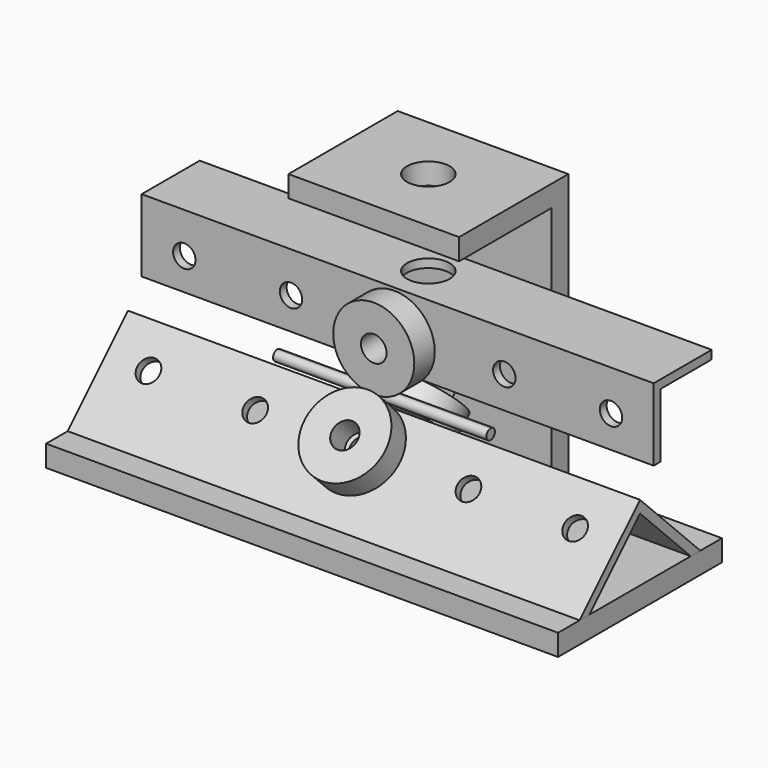
from build123d import *

# Parameters (mm, degrees)
F5_DEPTH         = 25
F5_DEPTH_BACK    = 25
F7_DEPTH         = 60
F7_DEPTH_BACK    = 60
F10_W            = 48
F10_H            = 5
F11_DEPTH        = 60
F11_DEPTH_BACK   = 60
F12_DEPTH        = 60
F12_DEPTH_BACK   = 60
F10_W_2          = 27
F10_W_3          = 5
F10_H_2          = 30
F13_DEPTH        = 20
F13_DEPTH_BACK   = 20
F15_D            = 5.25
F15_DEPTH        = 8.15
F15_TIP          = 1.5772591249
F15_ON_F8_D      = 5.25
F15_ON_F8_DEPTH  = 8.15
F15_ON_F8_TIP    = 1.5772591249
F15_ON_F14_D     = 5.25
F15_ON_F14_DEPTH = 8.15
F15_ON_F14_TIP   = 1.5772591249
F17_D            = 10
F17_DEPTH        = 54.5
F17_TIP          = 3.0043030951
F17_2_D          = 10
F17_2_DEPTH      = 54.5
F17_2_TIP        = 3.0043030951
F20_R            = 3
F21_DEPTH        = 3


with BuildPart() as f2:
    # F1 (on Right) → F2 (revolve)
    with BuildSketch(Plane.YZ):
        Polygon((-13.581475452, -4.5961940777), (-18.1776695297, -9.1923881554), (-13.9350288425, -13.4350288425), (-9.3388347648, -8.8388347648), align=None)
    revolve(axis=Axis((0, -9.3388347648, -4.5961940777), (0, 0.7071067812, -0.7071067812)))


with BuildPart() as f3:
    # F1 (on Right) → F3 (revolve)
    with BuildSketch(Plane.YZ):
        Polygon((13.9350288425, -13.4350288425), (18.1776695297, -9.1923881554), (13.581475452, -4.5961940777), (9.3388347648, -8.8388347648), align=None)
    revolve(axis=Axis((0, 9.3388347648, -4.5961940777), (0, -0.7071067812, -0.7071067812)))


with BuildPart() as f4:
    # F1 (on Right) → F4 (revolve)
    with BuildSketch(Plane.YZ):
        Polygon((3, 9), (-3, 9), (-3, 2.5), (0, 2.5), (3, 2.5), align=None)
    revolve(axis=Axis((0, 3.3228797838, 12), (0, 1, 0)))


with BuildPart() as f5:
    # F1 (on Right) → F5 (new body, two sides)
    with BuildSketch(Plane.YZ) as f5_sk:
        with BuildLine():
            ThreePointArc((1.2426406871, 1.2573593129), (0.8786796564, 2.1360389693), (0, 2.5))
            ThreePointArc((0, 2.5), (-0.8786796564, 0.3786796564), (1.2426406871, 1.2573593129))
        make_face()
    extrude(amount=F5_DEPTH)
    extrude(f5_sk.sketch, amount=-F5_DEPTH_BACK)


with BuildPart() as f7:
    # F6 (on Right) → F7 (new body, two sides)
    with BuildSketch(Plane.YZ) as f7_sk:
        Polygon((17.6776695297, -18.591883092), (0, -0.9142135624), (-17.6776695297, -18.591883092), (-14.8492424049, -18.591883092), (0, -3.7426406871), (14.8492424049, -18.591883092), align=None)
    extrude(amount=F7_DEPTH)
    extrude(f7_sk.sketch, amount=-F7_DEPTH_BACK)

    # F15
    with Locations(Plane(origin=(0, -0.4571067812, -0.4571067812), x_dir=(-1, 0, 0), z_dir=(0, 0.7071067812, 0.7071067812))):
        with Locations((-50, -9.8535533906), (-25, -9.8535533906), (0, -9.8535533906), (25, -9.8535533906), (50, -9.8535533906)):
            Hole(F15_D / 2, depth=F15_DEPTH)
            with Locations((0, 0, -(F15_DEPTH + F15_TIP / 2))):  # 118° drill point
                Cone(0, F15_D / 2, F15_TIP, mode=Mode.SUBTRACT)

    # F15 on F8
    with Locations(Plane(origin=(0, 0.4571067812, -0.4571067812), x_dir=(1, 0, 0), z_dir=(0, -0.7071067812, 0.7071067812))):
        with Locations((-50, -9.8535533906), (-25, -9.8535533906), (0, -9.8535533906), (25, -9.8535533906), (50, -9.8535533906)):
            Hole(F15_ON_F8_D / 2, depth=F15_ON_F8_DEPTH)
            with Locations((0, 0, -(F15_ON_F8_DEPTH + F15_ON_F8_TIP / 2))):  # 118° drill point
                Cone(0, F15_ON_F8_D / 2, F15_ON_F8_TIP, mode=Mode.SUBTRACT)


with BuildPart() as f11:
    # F10 (on Right) → F11 (new body, two sides)
    with BuildSketch(Plane.YZ) as f11_sk:
        with Locations((0, -21.091883092)):
            Rectangle(F10_W, F10_H)
    extrude(amount=F11_DEPTH)
    extrude(f11_sk.sketch, amount=-F11_DEPTH_BACK)

    # F10 (on Right) → F13 (join, two sides)
    with BuildSketch(Plane.YZ) as f13_sk:
        with Locations((10.5, 39)):
            Rectangle(F10_W_2, F10_H)
        Polygon((24, 36.5), (24, -18.591883092), (24, -23.591883092), (29, -23.591883092), (29, 41.5), (24, 41.5), align=None)
        with Locations((26.5, -38.591883092)):
            Rectangle(F10_W_3, F10_H_2)
    extrude(amount=F13_DEPTH)
    extrude(f13_sk.sketch, amount=-F13_DEPTH_BACK)

    # F17
    with Locations(Plane.XY.offset(41.5)):
        with Locations((0, 13)):
            Hole(F17_D / 2, depth=F17_DEPTH)
            with Locations((0, 0, -(F17_DEPTH + F17_TIP / 2))):  # 118° drill point
                Cone(0, F17_D / 2, F17_TIP, mode=Mode.SUBTRACT)


with BuildPart() as f12:
    # F10 (on Right) → F12 (new body, two sides)
    with BuildSketch(Plane.YZ) as f12_sk:
        Polygon((4, 21.5), (4, 4.5), (6, 4.5), (6, 19.5), (21, 19.5), (21, 21.5), (6, 21.5), align=None)
    extrude(amount=F12_DEPTH)
    extrude(f12_sk.sketch, amount=-F12_DEPTH_BACK)

    # F15 on F14
    with Locations(Plane.XZ.offset(-4)):
        with Locations((-50, 12), (-25, 12), (0, 12), (25, 12), (50, 12)):
            Hole(F15_ON_F14_D / 2, depth=F15_ON_F14_DEPTH)
            with Locations((0, 0, -(F15_ON_F14_DEPTH + F15_ON_F14_TIP / 2))):  # 118° drill point
                Cone(0, F15_ON_F14_D / 2, F15_ON_F14_TIP, mode=Mode.SUBTRACT)

    # F17#2
    with Locations(Plane.XY.offset(41.5)):
        with Locations((0, 13)):
            Hole(F17_2_D / 2, depth=F17_2_DEPTH)
            with Locations((0, 0, -(F17_2_DEPTH + F17_2_TIP / 2))):  # 118° drill point
                Cone(0, F17_2_D / 2, F17_2_TIP, mode=Mode.SUBTRACT)


with BuildPart() as f19:
    # F18 (on Right) → F19 (revolve)
    with BuildSketch(Plane.YZ):
        Polygon((11.4601551084, -2.4748737342), (4.3890872965, -9.545941546), (6.5104076401, -11.6672618896), (13.581475452, -4.5961940777), align=None)
    revolve(axis=Axis((0, 8.4588251656, -5.476203677), (0, -0.7071067812, -0.7071067812)))

    # F20 (on face) → F21 (join)
    with BuildSketch(Plane(origin=(0, 4.4926406871, 4.4926406871), x_dir=(-1, 0, 0), z_dir=(0, 0.7071067812, 0.7071067812))):
        Polygon((3.9723305907, -14.0432935988), (5.6145867509, -8.5082842909), (1.6422561602, -4.3185440828), (-3.9723305907, -5.6638131824), (-5.6145867509, -11.1988224902), (-1.6422561602, -15.3885626984), align=None)
        with Locations((0, -9.8535533906)):
            Circle(F20_R, mode=Mode.SUBTRACT)
        with Locations((0, -9.8535533906)):
            Circle(F20_R)
    extrude(amount=F21_DEPTH)


solid = Compound([f2.part, f3.part, f4.part, f5.part, f7.part, f11.part, f12.part, f19.part])
